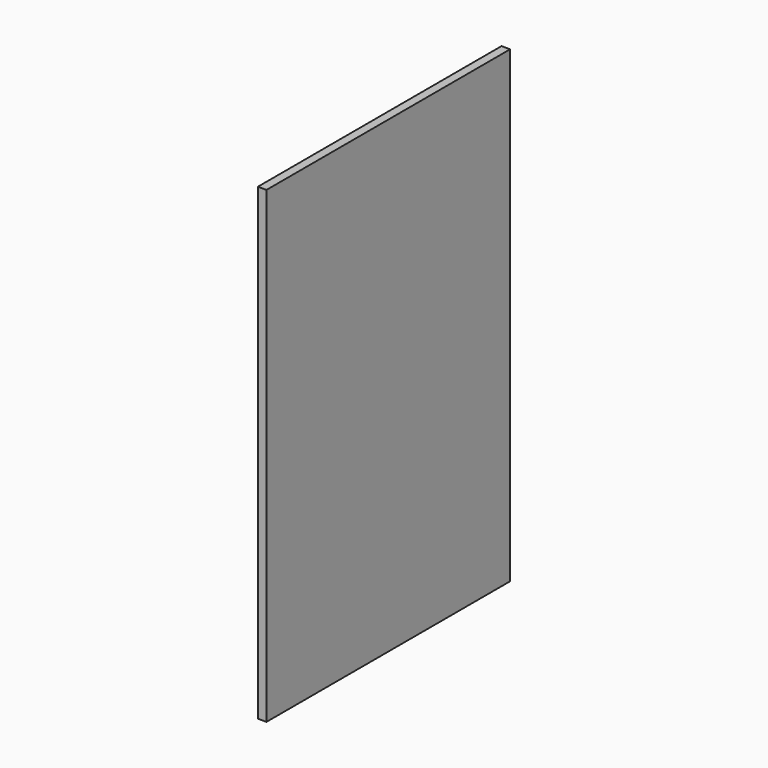
from build123d import *

# Parameters (mm, degrees)
F0_W      = 673.1
F0_H      = 704.85
F1_DEPTH  = 19.05
F1_FACE_W = 19.05
F1_FACE_H = 673.1
F2_DEPTH  = 330.2


with BuildPart() as f1:
    # F0 (on Right) → F1 (new body)
    with BuildSketch(Plane.YZ):
        Rectangle(F0_W, F0_H)
    extrude(amount=F1_DEPTH)

    # F1_face (on face) → F2 (join)
    with BuildSketch(Plane(origin=(9.525, 0, 352.425), x_dir=(1, 0, 0), z_dir=(0, 0, 1))):
        Rectangle(F1_FACE_W, F1_FACE_H)
    extrude(amount=F2_DEPTH)


solid = f1.part
